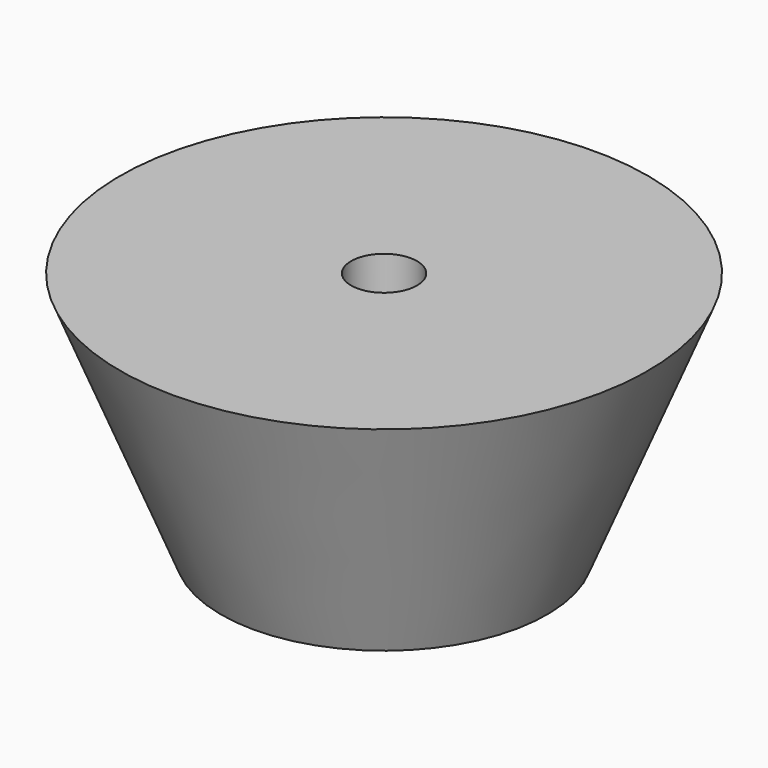
from build123d import *

# Parameters (mm, degrees)
F2_R     = 2.5
F3_DEPTH = 5
F4_R     = 2
F5_DEPTH = 25


with BuildPart() as f1:
    # F0 (on Right) → F1 (revolve)
    with BuildSketch(Plane.YZ):
        Polygon((-9.882553, 0), (0, 0), (0, 15), (-16, 15), align=None)
    revolve(axis=Axis((0, 0, 7.5), (0, 0, -1)))

    # F2 (on face) → F3 (cut)
    with BuildSketch(Plane(origin=(0, 0, 0), x_dir=(1, 0, 0), z_dir=(0, 0, -1))):
        Circle(F2_R)
    extrude(amount=-F3_DEPTH, mode=Mode.SUBTRACT)

    # F4 (on face) → F5 (cut)
    with BuildSketch(Plane.XY.offset(15)):
        Circle(F4_R)
    extrude(amount=-F5_DEPTH, mode=Mode.SUBTRACT)


solid = f1.part
